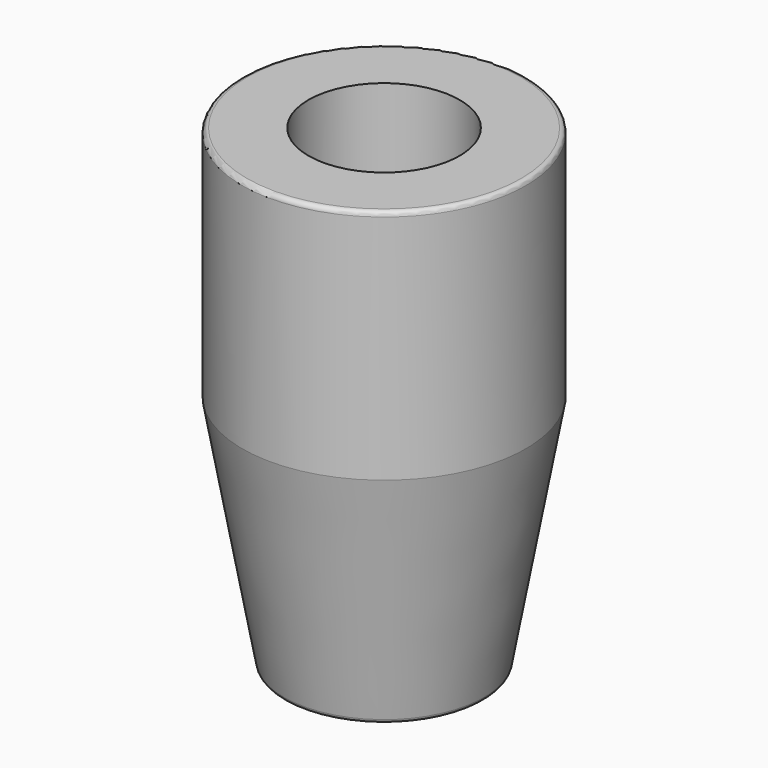
from build123d import *

# Parameters (mm, degrees)
F0_W = 2.8
F0_H = 10
F2_R = 0.2


with BuildPart() as f1:
    # F0 (on Front) → F1 (revolve)
    with BuildSketch(Plane.XZ):
        with Locations((-4.6, 5)):
            Rectangle(F0_W, F0_H)
        Polygon((-4.2, -10), (-3.2, -10), (-3.2, 0), (-6, 0), align=None)
    revolve(axis=Axis((0, 0, -5), (0, 0, -1)))

    # F2
    f2_edges = [f1.edges().sort_by_distance(p)[0] for p in [
        (4.2, 0, -10),
        (6, 0, 10),
        (3.2, 0, -10),
    ]]
    fillet(f2_edges, radius=F2_R)


solid = f1.part
